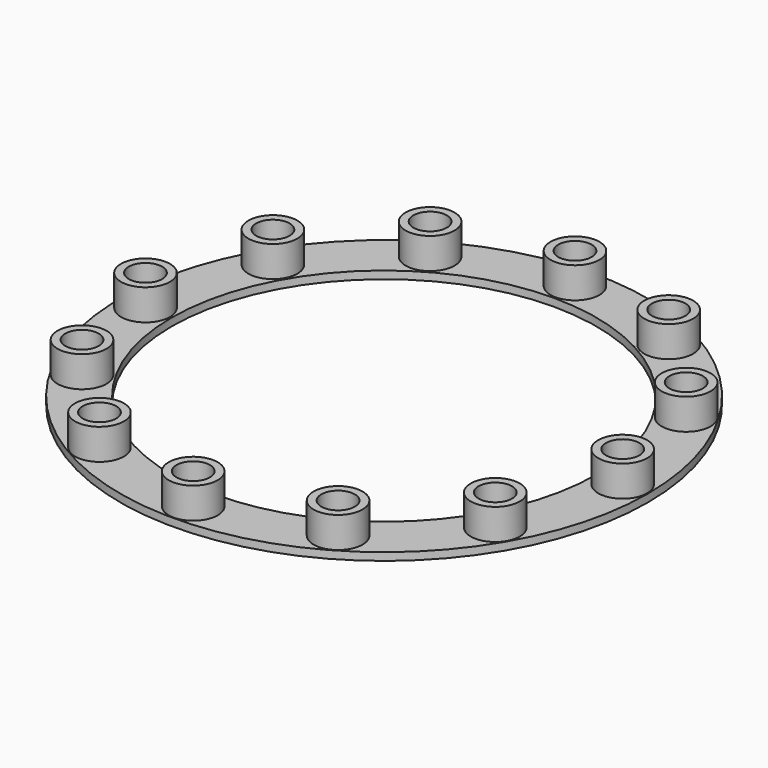
from build123d import *

# Parameters (mm, degrees)
F0_R     = 102.5
F0_R_2   = 9.5
F0_R_3   = 82.5
F1_DEPTH = 3
F0_R_4   = 6.5
F2_DEPTH = 15
F3_DEPTH = 2


with BuildPart() as f1:
    # F0 (on Top) → F1 (new body)
    with BuildSketch(Plane.XY):
        Circle(F0_R)
        with Locations((-46.328817, -80.243864)):
            Circle(F0_R_2, mode=Mode.SUBTRACT)
        with Locations((-80.243864, -46.328817)):
            Circle(F0_R_2, mode=Mode.SUBTRACT)
        with Locations((0, -92.657633)):
            Circle(F0_R_2, mode=Mode.SUBTRACT)
        with Locations((46.328817, -80.243864)):
            Circle(F0_R_2, mode=Mode.SUBTRACT)
        with Locations((80.243864, -46.328817)):
            Circle(F0_R_2, mode=Mode.SUBTRACT)
        with Locations((-92.657633, 0)):
            Circle(F0_R_2, mode=Mode.SUBTRACT)
        with Locations((-80.243864, 46.328817)):
            Circle(F0_R_2, mode=Mode.SUBTRACT)
        with Locations((-46.328817, 80.243864)):
            Circle(F0_R_2, mode=Mode.SUBTRACT)
        Circle(F0_R_3, mode=Mode.SUBTRACT)
        with Locations((92.657633, 0)):
            Circle(F0_R_2, mode=Mode.SUBTRACT)
        with Locations((80.243864, 46.328817)):
            Circle(F0_R_2, mode=Mode.SUBTRACT)
        with Locations((0, 92.657633)):
            Circle(F0_R_2, mode=Mode.SUBTRACT)
        with Locations((46.328817, 80.243864)):
            Circle(F0_R_2, mode=Mode.SUBTRACT)
    extrude(amount=F1_DEPTH)

    # F0 (on Top) → F2 (join)
    with BuildSketch(Plane.XY):
        with Locations((-80.243864, 46.328817)):
            Circle(F0_R_2)
        with Locations((-80.243864, 46.328817)):
            Circle(F0_R_4, mode=Mode.SUBTRACT)
        with Locations((-46.328817, 80.243864)):
            Circle(F0_R_2)
        with Locations((-46.328817, 80.243864)):
            Circle(F0_R_4, mode=Mode.SUBTRACT)
        with Locations((0, 92.657633)):
            Circle(F0_R_2)
        with Locations((0, 92.657633)):
            Circle(F0_R_4, mode=Mode.SUBTRACT)
        with Locations((92.657633, 0)):
            Circle(F0_R_2)
        with Locations((92.657633, 0)):
            Circle(F0_R_4, mode=Mode.SUBTRACT)
        with Locations((80.243864, -46.328817)):
            Circle(F0_R_2)
        with Locations((80.243864, -46.328817)):
            Circle(F0_R_4, mode=Mode.SUBTRACT)
        with Locations((46.328817, -80.243864)):
            Circle(F0_R_2)
        with Locations((46.328817, -80.243864)):
            Circle(F0_R_4, mode=Mode.SUBTRACT)
        with Locations((0, -92.657633)):
            Circle(F0_R_2)
        with Locations((0, -92.657633)):
            Circle(F0_R_4, mode=Mode.SUBTRACT)
        with Locations((-46.328817, -80.243864)):
            Circle(F0_R_2)
        with Locations((-46.328817, -80.243864)):
            Circle(F0_R_4, mode=Mode.SUBTRACT)
        with Locations((-80.243864, -46.328817)):
            Circle(F0_R_2)
        with Locations((-80.243864, -46.328817)):
            Circle(F0_R_4, mode=Mode.SUBTRACT)
        with Locations((-92.657633, 0)):
            Circle(F0_R_2)
        with Locations((-92.657633, 0)):
            Circle(F0_R_4, mode=Mode.SUBTRACT)
        with Locations((46.328817, 80.243864)):
            Circle(F0_R_2)
        with Locations((46.328817, 80.243864)):
            Circle(F0_R_4, mode=Mode.SUBTRACT)
        with Locations((80.243864, 46.328817)):
            Circle(F0_R_2)
        with Locations((80.243864, 46.328817)):
            Circle(F0_R_4, mode=Mode.SUBTRACT)
    extrude(amount=F2_DEPTH)

    # F0 (on Top) → F3 (join)
    with BuildSketch(Plane.XY):
        with Locations((-46.328817, 80.243864)):
            Circle(F0_R_4)
        with Locations((0, 92.657633)):
            Circle(F0_R_4)
        with Locations((92.657633, 0)):
            Circle(F0_R_4)
        with Locations((80.243864, -46.328817)):
            Circle(F0_R_4)
        with Locations((46.328817, -80.243864)):
            Circle(F0_R_4)
        with Locations((0, -92.657633)):
            Circle(F0_R_4)
        with Locations((-46.328817, -80.243864)):
            Circle(F0_R_4)
        with Locations((-80.243864, -46.328817)):
            Circle(F0_R_4)
        with Locations((-92.657633, 0)):
            Circle(F0_R_4)
        with Locations((-80.243864, 46.328817)):
            Circle(F0_R_4)
        with Locations((46.328817, 80.243864)):
            Circle(F0_R_2)
        with Locations((46.328817, 80.243864)):
            Circle(F0_R_4, mode=Mode.SUBTRACT)
        with Locations((80.243864, 46.328817)):
            Circle(F0_R_2)
        with Locations((80.243864, 46.328817)):
            Circle(F0_R_4, mode=Mode.SUBTRACT)
        with Locations((46.328817, 80.243864)):
            Circle(F0_R_4)
        with Locations((80.243864, 46.328817)):
            Circle(F0_R_4)
    extrude(amount=F3_DEPTH)


solid = f1.part
